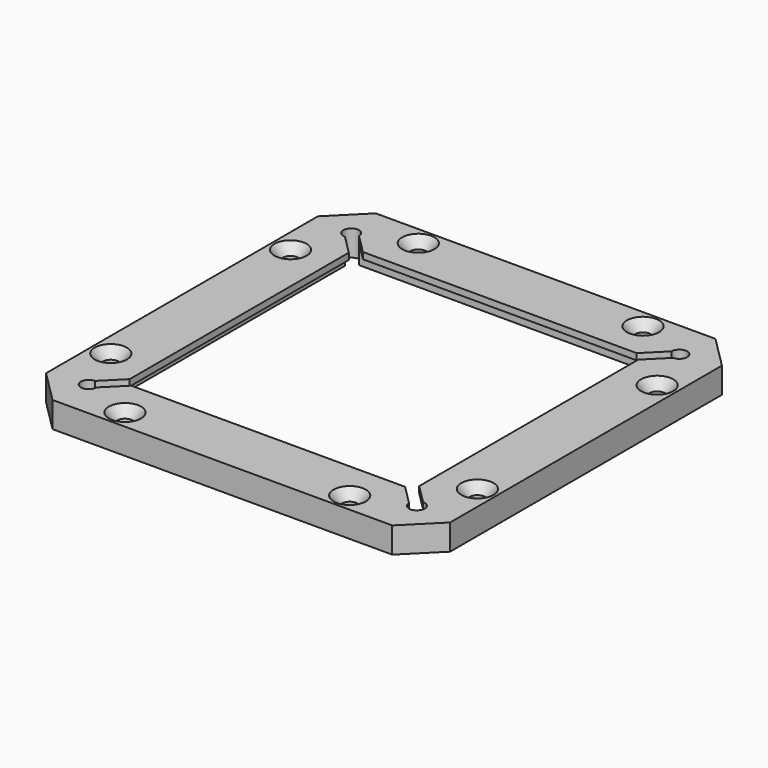
from build123d import *

# Parameters (mm, degrees)
F0_W           = 62.8
F0_H           = 62.8
F0_W_2         = 51
F0_H_2         = 51
F0_W_3         = 45
F0_H_3         = 45
F1_DEPTH       = 4
F2_DEPTH       = 3
F4_D           = 2.4384
F4_DEPTH       = 20
F4_CSINK_D     = 5.0038
F4_CSINK_ANGLE = 82
F4_TIP         = 0.7325692667
F5_D           = 2.4384
F5_DEPTH       = 20
F5_START       = 3
F5_TIP         = 0.7325692667
F7_DEPTH       = 4.001
F8_SIZE        = 5


with BuildPart() as f1:
    # F0 (on Top) → F1 (new body)
    with BuildSketch(Plane.XY):
        Rectangle(F0_W, F0_H)
        Rectangle(F0_W_2, F0_H_2, mode=Mode.SUBTRACT)
        Rectangle(F0_W_2, F0_H_2)
        Rectangle(F0_W_3, F0_H_3, mode=Mode.SUBTRACT)
    extrude(amount=F1_DEPTH)

    # F0 (on Top) → F2 (cut)
    with BuildSketch(Plane.XY):
        Rectangle(F0_W_2, F0_H_2)
        Rectangle(F0_W_3, F0_H_3, mode=Mode.SUBTRACT)
    extrude(amount=F2_DEPTH, mode=Mode.SUBTRACT)

    # F4
    with Locations(Plane.XY.offset(4)):
        with Locations((-17.4625, -28.49), (-28.49, -17.4625), (-28.49, 17.4625), (-17.4625, 28.49), (17.4625, 28.49), (28.49, 17.4625), (28.49, -17.4625), (17.4625, -28.49)):
            CounterSinkHole(F4_D / 2, F4_CSINK_D / 2, depth=F4_DEPTH, counter_sink_angle=F4_CSINK_ANGLE)
            with Locations((0, 0, -(F4_DEPTH + F4_TIP / 2))):  # 118° drill point
                Cone(0, F4_D / 2, F4_TIP, mode=Mode.SUBTRACT)

    # F5
    # its depths count from where the whole tool has entered the part; down to there all is cleared
    with Locations(Plane(origin=(0, 0, 0), x_dir=(1, 0, 0), z_dir=(0, 0, -1)).offset(-F5_START)):
        with Locations((-25.5, -25.5), (25.5, -25.5), (-25.5, 25.5), (25.5, 25.5)):
            Hole(F5_D / 2, depth=F5_DEPTH)
            with Locations((0, 0, -(F5_DEPTH + F5_TIP / 2))):  # 118° drill point
                Cone(0, F5_D / 2, F5_TIP, mode=Mode.SUBTRACT)

    # F6 (on face) → F7 (cut, through all)
    with BuildSketch(Plane.XY.offset(4)):
        with BuildLine():
            Line((-21.2808, 22.5), (-24.2808, 25.5))
            ThreePointArc((-24.2808, 25.5), (-24.6378954124, 24.6378954124), (-25.5, 24.2808))
            Line((-25.5, 24.2808), (-22.5, 21.2808))
            Line((-22.5, 21.2808), (-22.5, 22.5))
            Line((-22.5, 22.5), (-21.2808, 22.5))
        make_face()
        with BuildLine():
            Line((22.5, 21.2808), (25.5, 24.2808))
            ThreePointArc((25.5, 24.2808), (24.6378954124, 24.6378954124), (24.2808, 25.5))
            Line((24.2808, 25.5), (21.2808, 22.5))
            Line((21.2808, 22.5), (22.5, 22.5))
            Line((22.5, 22.5), (22.5, 21.2808))
        make_face()
        with BuildLine():
            ThreePointArc((-25.5, -24.2808), (-24.6378954124, -24.6378954124), (-24.2808, -25.5))
            Line((-24.2808, -25.5), (-21.2808, -22.5))
            Line((-21.2808, -22.5), (-22.5, -22.5))
            Line((-22.5, -22.5), (-22.5, -21.2808))
            Line((-22.5, -21.2808), (-25.5, -24.2808))
        make_face()
        with BuildLine():
            ThreePointArc((24.2808, -25.5), (24.6378954124, -24.6378954124), (25.5, -24.2808))
            Line((25.5, -24.2808), (22.5, -21.2808))
            Line((22.5, -21.2808), (22.5, -22.5))
            Line((22.5, -22.5), (21.2808, -22.5))
            Line((21.2808, -22.5), (24.2808, -25.5))
        make_face()
    extrude(amount=-F7_DEPTH, mode=Mode.SUBTRACT)

    # F8
    f8_edges = [f1.edges().sort_by_distance(p)[0] for p in [
        (31.4, -31.4, 2),
        (-31.4, -31.4, 2),
        (-31.4, 31.4, 2),
        (31.4, 31.4, 2),
    ]]
    chamfer(f8_edges, length=F8_SIZE)


solid = f1.part
